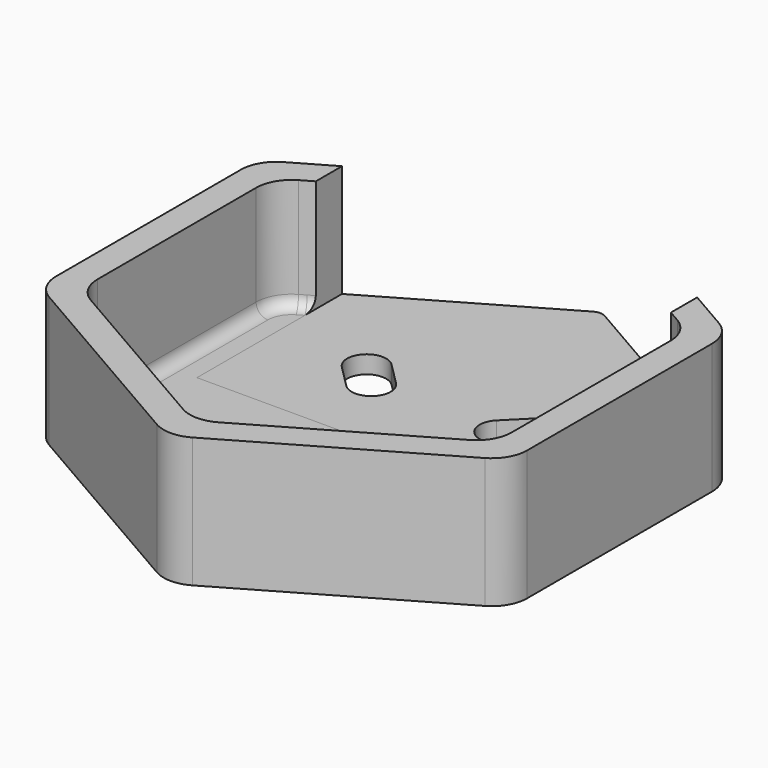
from build123d import *

# Parameters (mm, degrees)
F1_DEPTH = 1.5
F2_DEPTH = 11
F4_W     = 30
F4_H     = 11.070783
F5_DEPTH = 26
F6_R     = 3
F7_R     = 1


with BuildPart() as f1:
    # F0 (on Top) → F1 (new body)
    with BuildSketch(Plane.XY):
        Polygon((0, -20.207259), (17.5, -10.10363), (17.5, 10.10363), (0, 20.207259), (-17.5, 10.10363), (-17.5, -10.10363), align=None)
        with BuildLine():
            ThreePointArc((-6.151829, -8.485281), (-8.485281, -8.485281), (-8.485281, -6.151829))
            Line((-8.485281, -6.151829), (-6.576093, -4.242641))
            ThreePointArc((-6.576093, -4.242641), (-4.242641, -4.242641), (-4.242641, -6.576093))
            Line((-4.242641, -6.576093), (-6.151829, -8.485281))
        make_face(mode=Mode.SUBTRACT)
        with BuildLine():
            ThreePointArc((8.485281, -6.151829), (8.485281, -8.485281), (6.151829, -8.485281))
            Line((6.151829, -8.485281), (4.242641, -6.576093))
            ThreePointArc((4.242641, -6.576093), (4.242641, -4.242641), (6.576093, -4.242641))
            Line((6.576093, -4.242641), (8.485281, -6.151829))
        make_face(mode=Mode.SUBTRACT)
        with BuildLine():
            ThreePointArc((-8.485281, 6.151829), (-8.485281, 8.485281), (-6.151829, 8.485281))
            Line((-6.151829, 8.485281), (-4.242641, 6.576093))
            ThreePointArc((-4.242641, 6.576093), (-4.242641, 4.242641), (-6.576093, 4.242641))
            Line((-6.576093, 4.242641), (-8.485281, 6.151829))
        make_face(mode=Mode.SUBTRACT)
        with BuildLine():
            Line((4.242641, 6.576093), (6.151829, 8.485281))
            ThreePointArc((6.151829, 8.485281), (8.485281, 8.485281), (8.485281, 6.151829))
            Line((8.485281, 6.151829), (6.576093, 4.242641))
            ThreePointArc((6.576093, 4.242641), (4.242641, 4.242641), (4.242641, 6.576093))
        make_face(mode=Mode.SUBTRACT)
    extrude(amount=F1_DEPTH)

    # F0 (on Top) → F2 (join)
    with BuildSketch(Plane.XY):
        Polygon((-19.9, 11.48927), (-19.9, -11.48927), (0, -22.978541), (19.9, -11.48927), (19.9, 11.48927), (0, 22.978541), align=None)
        Polygon((17.5, 10.10363), (17.5, -10.10363), (0, -20.207259), (-17.5, -10.10363), (-17.5, 10.10363), (0, 20.207259), align=None, mode=Mode.SUBTRACT)
    extrude(amount=F2_DEPTH)

    # F4 (on offset) → F5 (cut)
    with BuildSketch(Plane.XZ.offset(-25)):
        with Locations((0, 7.035391)):
            Rectangle(F4_W, F4_H)
    extrude(amount=F5_DEPTH, mode=Mode.SUBTRACT)

    # F6
    f6_edges = [f1.edges().sort_by_distance(p)[0] for p in [
        (19.9, 11.48927, 5.5),
        (-19.9, 11.48927, 5.5),
        (-19.9, -11.48927, 5.5),
        (0, -22.978541, 5.5),
        (19.9, -11.48927, 5.5),
        (17.5, 10.10363, 6.25),
        (17.5, -10.10363, 6.25),
        (0, -20.207259, 6.25),
        (-17.5, -10.10363, 6.25),
        (-17.5, 10.10363, 6.25),
    ]]
    fillet(f6_edges, radius=F6_R)

    # F7
    f7_edges = [f1.edges().sort_by_distance(p)[0] for p in [
        (-15.5, 11.25833, 1.5),
        (0, 22.978541, 0.75),
    ]]
    fillet(f7_edges, radius=F7_R)


solid = f1.part
